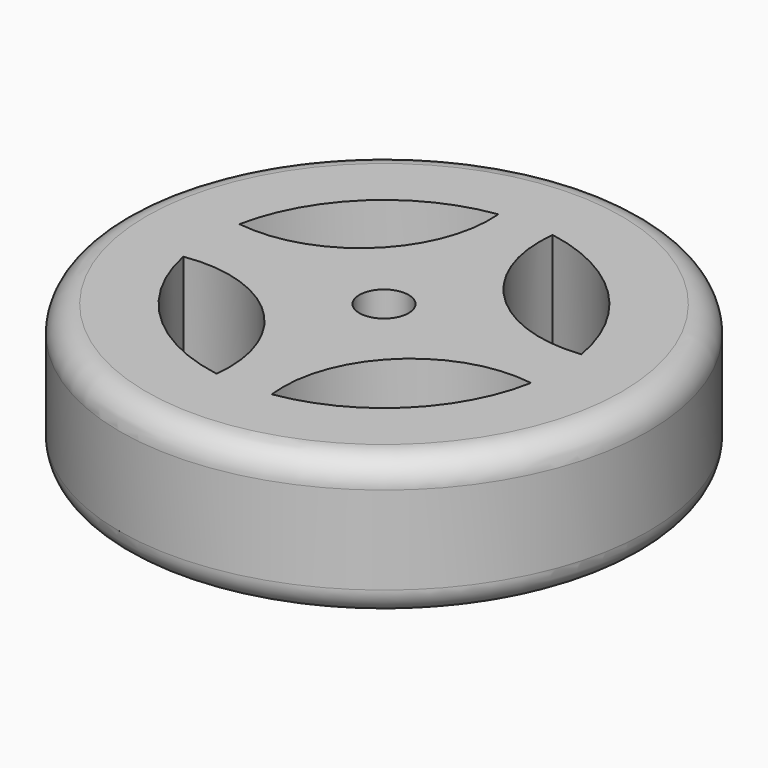
from build123d import *

# Parameters (mm, degrees)
F0_R     = 15
F0_R_2   = 1.4
F1_DEPTH = 8
F2_R     = 1.5
F3_R     = 1.5
F4_R     = 2.5
F5_DEPTH = 3
F6_R     = 1.4
F7_DEPTH = 25


with BuildPart() as f1:
    # F0 (on Top) → F1 (new body)
    with BuildSketch(Plane.XY):
        Circle(F0_R)
        with BuildLine():
            ThreePointArc((-9.796631, -2.006496), (-3.744207, -3.896689), (-1.614051, -9.868882))
            ThreePointArc((-1.614051, -9.868882), (-6.928578, -7.210743), (-9.796631, -2.006496))
        make_face(mode=Mode.SUBTRACT)
        with BuildLine():
            ThreePointArc((1.531464, -9.882035), (3.685338, -3.80578), (9.827695, -1.848356))
            ThreePointArc((9.827695, -1.848356), (6.956481, -7.183827), (1.531464, -9.882035))
        make_face(mode=Mode.SUBTRACT)
        with BuildLine():
            ThreePointArc((-9.80076, 1.986231), (-6.865646, 7.270688), (-1.421798, 9.898408))
            ThreePointArc((-1.421798, 9.898408), (-3.712984, 3.932034), (-9.80076, 1.986231))
        make_face(mode=Mode.SUBTRACT)
        Circle(F0_R_2, mode=Mode.SUBTRACT)
        with BuildLine():
            ThreePointArc((9.855809, 1.692051), (3.799696, 3.798731), (1.694555, 9.855378))
            ThreePointArc((1.694555, 9.855378), (7.071966, 7.070169), (9.855809, 1.692051))
        make_face(mode=Mode.SUBTRACT)
    extrude(amount=F1_DEPTH)

    # F2
    f2_edges = [f1.edges().sort_by_distance(p)[0] for p in [
        (-15, 0, 8),
    ]]
    fillet(f2_edges, radius=F2_R)

    # F3
    f3_edges = [f1.edges().sort_by_distance(p)[0] for p in [
        (-15, 0, 0),
    ]]
    fillet(f3_edges, radius=F3_R)

    # F4 (on face) → F5 (join)
    with BuildSketch(Plane(origin=(0, 0, 0), x_dir=(1, 0, 0), z_dir=(0, 0, -1))):
        Circle(F4_R)
    extrude(amount=F5_DEPTH)

    # F6 (on face) → F7 (cut)
    with BuildSketch(Plane(origin=(0, 0, -3), x_dir=(1, 0, 0), z_dir=(0, 0, -1))):
        Circle(F6_R)
    extrude(amount=-F7_DEPTH, mode=Mode.SUBTRACT)


solid = f1.part
